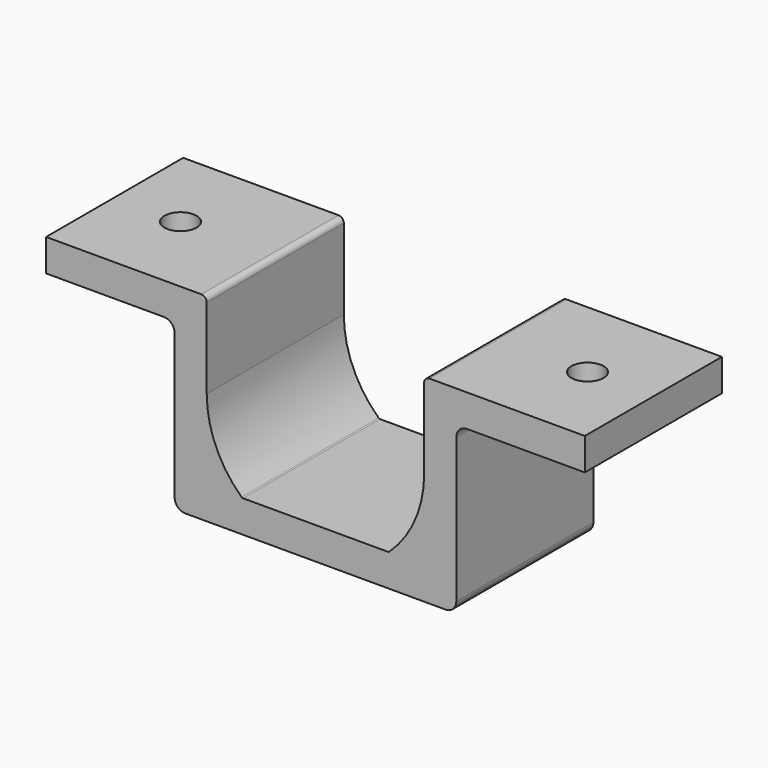
from build123d import *

# Parameters (mm, degrees)
F1_DEPTH = 16
F2_R     = 1.5
F3_DEPTH = 18.501
F5_DEPTH = 1.3
F6_R     = 0.5


with BuildPart() as f1:
    # F0 (on Front) → F1 (new body)
    with BuildSketch(Plane.XZ):
        with BuildLine():
            ThreePointArc((-13.15, 1), (-12.857107, 0.292893), (-12.15, 0))
            Line((-12.15, 0), (12.15, 0))
            ThreePointArc((12.15, 0), (12.857107, 0.292893), (13.15, 1))
            Line((13.15, 1), (13.15, 14.5))
            ThreePointArc((13.15, 14.5), (13.442893, 15.207107), (14.15, 15.5))
            Line((14.15, 15.5), (25.15, 15.5))
            Line((25.15, 15.5), (25.15, 18.5))
            Line((25.15, 18.5), (13.15, 18.5))
            Line((13.15, 18.5), (10.15, 18.5))
            Line((10.15, 18.5), (10.15, 10.5))
            ThreePointArc((10.15, 10.5), (9.301266, 6.436878), (6.897004, 3.053266))
            ThreePointArc((6.897004, 3.053266), (6.834086, 3.013792), (6.761102, 3))
            Line((6.761102, 3), (-6.761102, 3))
            ThreePointArc((-6.761102, 3), (-6.834086, 3.013792), (-6.897004, 3.053266))
            ThreePointArc((-6.897004, 3.053266), (-9.301266, 6.436878), (-10.15, 10.5))
            Line((-10.15, 10.5), (-10.15, 18.5))
            Line((-10.15, 18.5), (-13.15, 18.5))
            Line((-13.15, 18.5), (-25.15, 18.5))
            Line((-25.15, 18.5), (-25.15, 15.5))
            Line((-25.15, 15.5), (-14.15, 15.5))
            ThreePointArc((-14.15, 15.5), (-13.442893, 15.207107), (-13.15, 14.5))
            Line((-13.15, 14.5), (-13.15, 1))
        make_face()
    extrude(amount=F1_DEPTH)

    # F2 (on face) → F3 (cut, through all)
    with BuildSketch(Plane.XY.offset(18.5)):
        with Locations((-19, -8)):
            Circle(F2_R)
        with Locations((19, -8)):
            Circle(F2_R)
    extrude(amount=-F3_DEPTH, mode=Mode.SUBTRACT)

    # F4 (on face) → F5 (cut)
    with BuildSketch(Plane(origin=(0, 0, 15.5), x_dir=(1, 0, 0), z_dir=(0, 0, -1))):
        Polygon((-16.2, 6.383419), (-16.2, 9.616581), (-19, 11.233162), (-21.8, 9.616581), (-21.8, 6.383419), (-19, 4.766838), align=None)
        Polygon((19, 11.233162), (16.2, 9.616581), (16.2, 6.383419), (19, 4.766838), (21.8, 6.383419), (21.8, 9.616581), align=None)
    extrude(amount=-F5_DEPTH, mode=Mode.SUBTRACT)

    # F6
    f6_edges = [f1.edges().sort_by_distance(p)[0] for p in [
        (-10.15, -8, 18.5),
        (10.15, -8, 18.5),
    ]]
    fillet(f6_edges, radius=F6_R)


solid = f1.part
